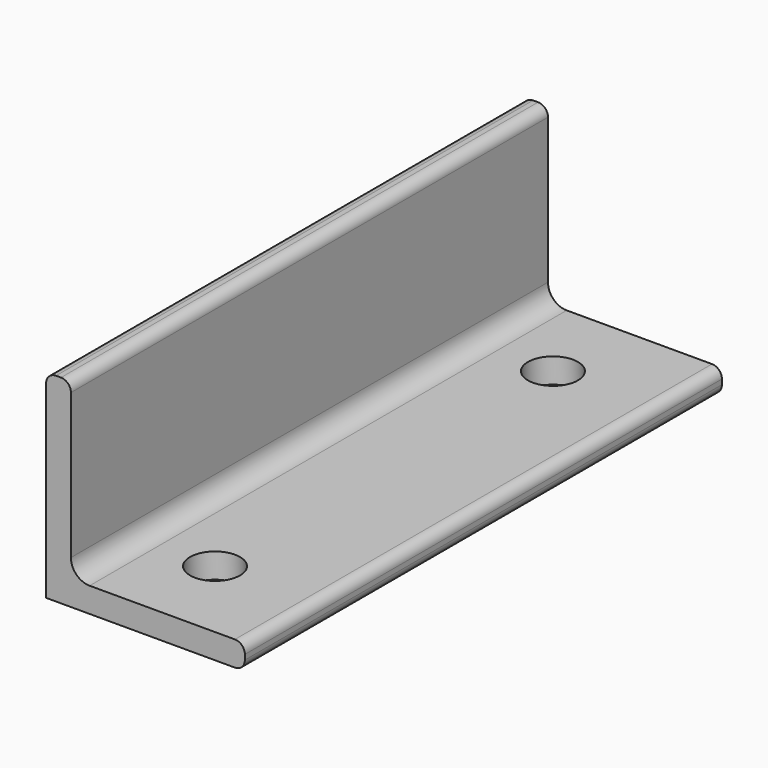
from build123d import *

# Parameters (mm, degrees)
F1_DEPTH = 152.4
F2_R     = 2.54
F3_R     = 4.7752
F4_R     = 6.389688
F5_DEPTH = 25.4


with BuildPart() as f1:
    # F0 (on Front) → F1 (new body)
    with BuildSketch(Plane.XZ):
        Polygon((6.35, 0), (0, 0), (0, -50.8), (50.8, -50.8), (50.8, -44.45), (6.35, -44.45), align=None)
    extrude(amount=F1_DEPTH)

    # F2
    f2_edges = [f1.edges().sort_by_distance(p)[0] for p in [
        (6.35, -76.2, 0),
        (0, -76.2, 0),
        (50.8, -76.2, -44.45),
        (50.8, -76.2, -50.8),
    ]]
    fillet(f2_edges, radius=F2_R)

    # F3
    f3_edges = [f1.edges().sort_by_distance(p)[0] for p in [
        (6.35, -76.2, -44.45),
    ]]
    fillet(f3_edges, radius=F3_R)

    # F4 (on face) → F5 (cut)
    with BuildSketch(Plane(origin=(0, 0, -50.8), x_dir=(1, 0, 0), z_dir=(0, 0, -1))):
        with Locations((25.4, 130.175)):
            Circle(F4_R)
        with Locations((25.4, 22.225)):
            Circle(F4_R)
    extrude(amount=-F5_DEPTH, mode=Mode.SUBTRACT)


solid = f1.part
